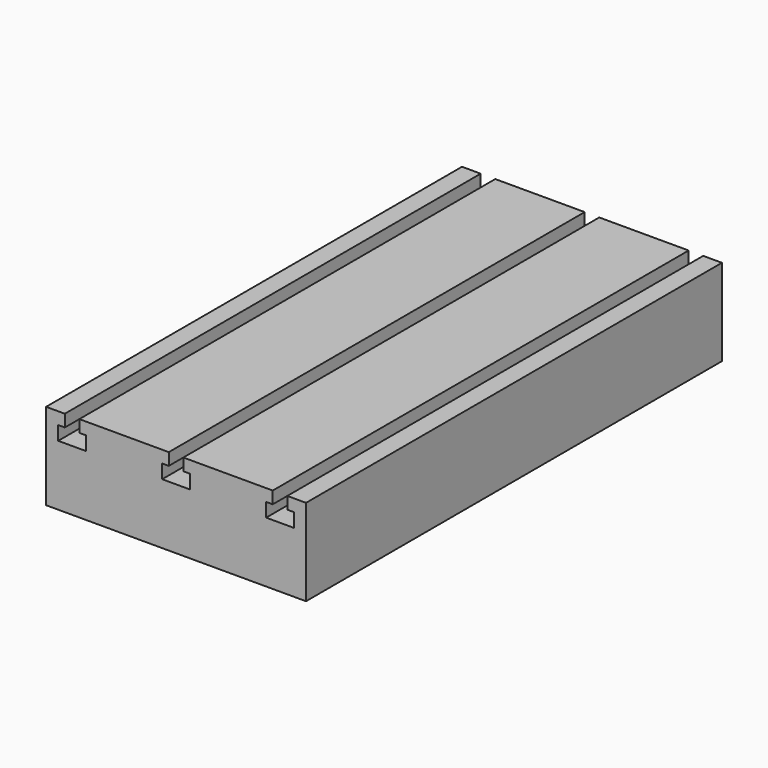
from build123d import *

# Parameters (mm, degrees)
F1_DEPTH      = 150
F1_DEPTH_BACK = 150


with BuildPart() as f1:
    # F0 (on Front) → F1 (new body, two sides)
    with BuildSketch(Plane.XZ) as f1_sk:
        Polygon((-75, 25), (-75, -25), (10.8969407156, -25), (35.9619036317, -25), (75, -25), (75, 25), (64.2, 25), (64.2, 18), (68, 18), (68, 10), (52, 10), (52, 18), (55.8, 18), (55.8, 25), (4.2, 25), (4.2, 18), (8, 18), (8, 10), (-8, 10), (-8, 18), (-4.2, 18), (-4.2, 25), (-55.8, 25), (-55.8, 18), (-52, 18), (-52, 10), (-68, 10), (-68, 18), (-64.2, 18), (-64.2, 25), align=None)
    extrude(amount=-F1_DEPTH)
    extrude(f1_sk.sketch, amount=F1_DEPTH_BACK)


solid = f1.part
